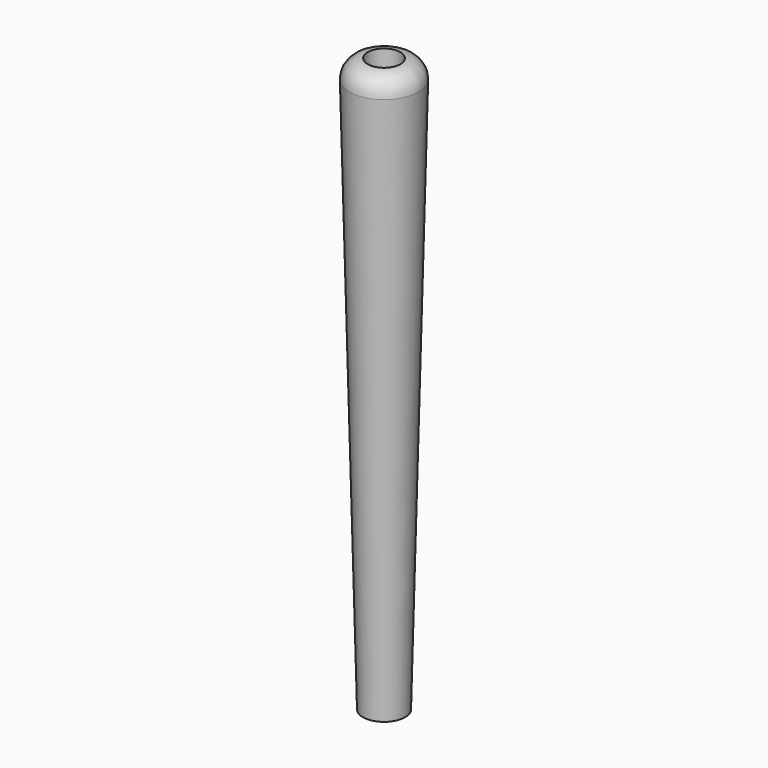
from build123d import *


with BuildPart() as f2:
    # F0 (on Front) → F2 (revolve)
    with BuildSketch(Plane.XZ):
        with BuildLine():
            Line((7.37092, -98.159335), (12.047568, 95.454017))
            ThreePointArc((12.047568, 95.454017), (10.243437, 100.042938), (5.69942, 101.957354))
            Line((5.69942, 101.957354), (5.69942, 87.153636))
            Line((5.69942, 87.153636), (2.54, 87.153636))
            Line((2.54, 87.153636), (2.54, -98.042646))
            Line((2.54, -98.042646), (7.37092, -98.159335))
        make_face()
    revolve(axis=Axis((0, 0, 4.338957), (0, 0, -1)))


solid = f2.part
